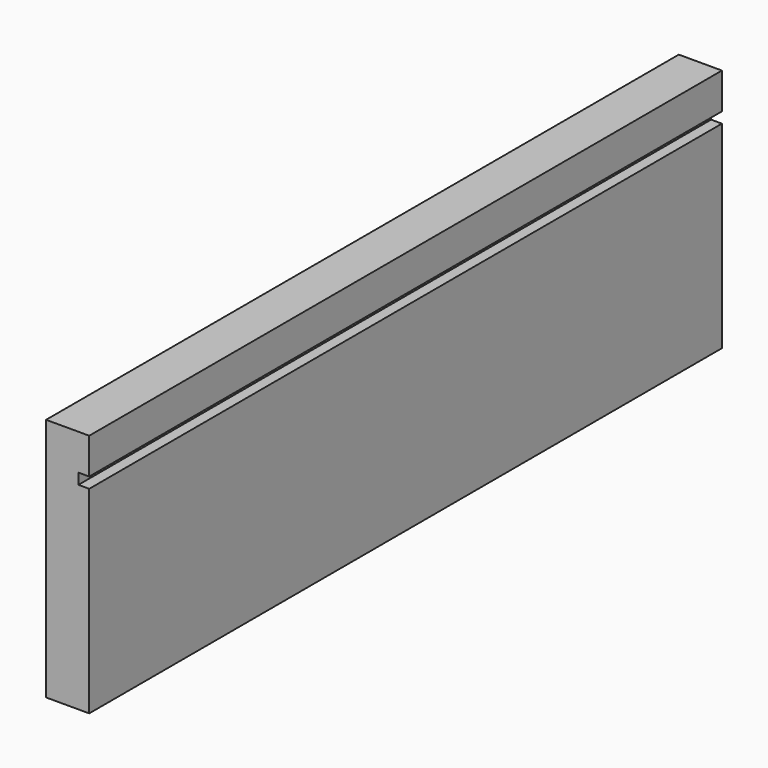
from build123d import *

# Parameters (mm, degrees)
F0_W     = 220
F0_H     = 68
F1_DEPTH = 12
F2_W     = 3
F2_H     = 3
F3_DEPTH = 300
F5_W     = 12
F5_H     = 68
F6_DEPTH = 220
F7_W     = 220
F7_H     = 3
F8_DEPTH = 3


with BuildPart() as f1:
    # F0 (on Front) → F1 (new body)
    with BuildSketch(Plane.XZ):
        Rectangle(F0_W, F0_H)
    extrude(amount=F1_DEPTH)

    # F2 (on face) → F3 (cut)
    with BuildSketch(Plane.YZ.offset(110)):
        with Locations((-1.5, 22.5)):
            Rectangle(F2_W, F2_H)
    extrude(amount=-F3_DEPTH, mode=Mode.SUBTRACT)


with BuildPart() as f6:
    # F5 (on Front) → F6 (new body)
    with BuildSketch(Plane.XZ):
        Rectangle(F5_W, F5_H)
    extrude(amount=F6_DEPTH)

    # F7 (on face) → F8 (cut)
    with BuildSketch(Plane.YZ.offset(6)):
        with Locations((-110, 22.5)):
            Rectangle(F7_W, F7_H)
    extrude(amount=-F8_DEPTH, mode=Mode.SUBTRACT)


solid = f6.part
